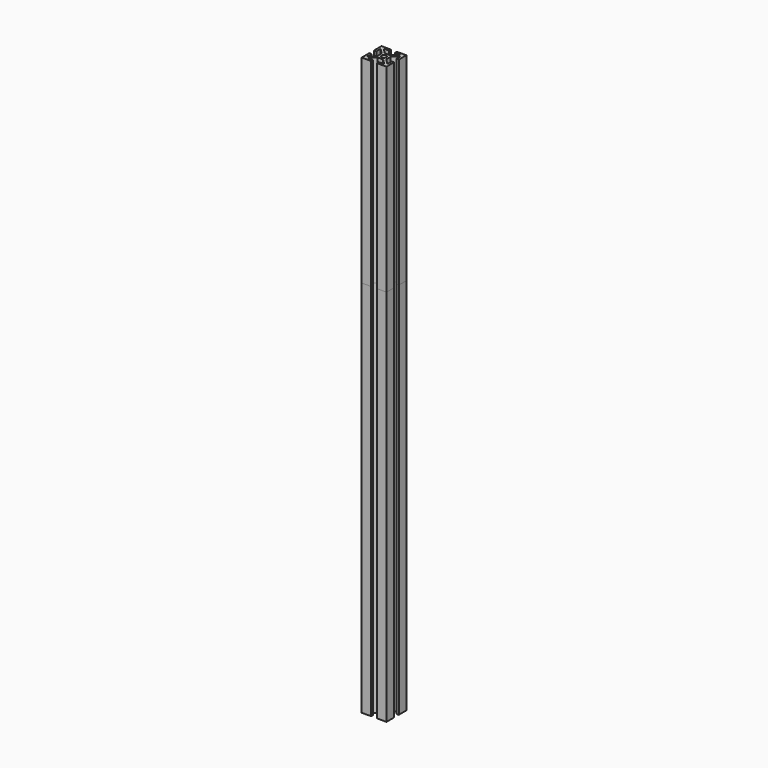
from build123d import *

# Parameters (mm, degrees)
F0_R      = 1.930485
F1_DEPTH  = 305
F1_FACE_R = 1.930485
F2_DEPTH  = 160


with BuildPart() as f1:
    # F0 (on Top) → F1 (new body)
    with BuildSketch(Plane.XY):
        Polygon((2.207242, 3.60976), (-2.201298, 3.60976), (-6.719596, 8.128045), (-2.378139, 8.128045), (-2.378139, 9.999997), (-10.000081, 9.999997), (-10.000081, 2.38414), (-8.10984, 2.38414), (-8.10984, 6.737804), (-3.609838, 2.237799), (-3.609838, -2.237799), (-8.10984, -6.737801), (-8.10984, -2.384142), (-10.000081, -2.384142), (-10.000081, -10.000001), (-2.384238, -10.000001), (-2.384238, -8.128041), (-6.725692, -8.128041), (-2.207397, -3.609759), (2.201143, -3.609759), (6.719422, -8.128041), (2.377962, -8.128041), (2.377962, -10.000001), (9.999922, -10.000001), (9.999922, -2.384142), (8.109683, -2.384142), (8.109683, -6.737801), (3.609663, -2.237799), (3.609663, 2.237799), (8.109683, 6.737804), (8.109683, 2.38414), (9.999922, 2.38414), (9.999922, 9.999997), (2.384063, 9.999997), (2.384063, 8.128045), (6.725523, 8.128045), align=None)
        with Locations((0.002972, 0)):
            Circle(F0_R, mode=Mode.SUBTRACT)
    extrude(amount=F1_DEPTH)


with BuildPart() as f2:
    # F1_face (on face) → F2 (new body)
    with BuildSketch(Plane(origin=(-0.000268, -5e-06, 305), x_dir=(1, 0, 0), z_dir=(0, 0, 1))):
        Polygon((2.37823, -9.999996), (10.000191, -9.999996), (10.000191, -2.384136), (8.109951, -2.384136), (8.109951, -6.737796), (3.609932, -2.237794), (3.609932, 2.237805), (8.109951, 6.737809), (8.109951, 2.384145), (10.000191, 2.384145), (10.000191, 10.000002), (2.384331, 10.000002), (2.384331, 8.12805), (6.725791, 8.12805), (2.20751, 3.609765), (-2.20103, 3.609765), (-6.719327, 8.12805), (-2.377871, 8.12805), (-2.377871, 10.000002), (-9.999813, 10.000002), (-9.999813, 2.384145), (-8.109571, 2.384145), (-8.109571, 6.737809), (-3.60957, 2.237805), (-3.60957, -2.237794), (-8.109571, -6.737796), (-8.109571, -2.384136), (-9.999813, -2.384136), (-9.999813, -9.999996), (-2.383969, -9.999996), (-2.383969, -8.128035), (-6.725423, -8.128035), (-2.207129, -3.609754), (2.201411, -3.609754), (6.71969, -8.128035), (2.37823, -8.128035), align=None)
        with Locations((0.00324, 5e-06)):
            Circle(F1_FACE_R, mode=Mode.SUBTRACT)
    extrude(amount=F2_DEPTH)


solid = Compound([f1.part, f2.part])
